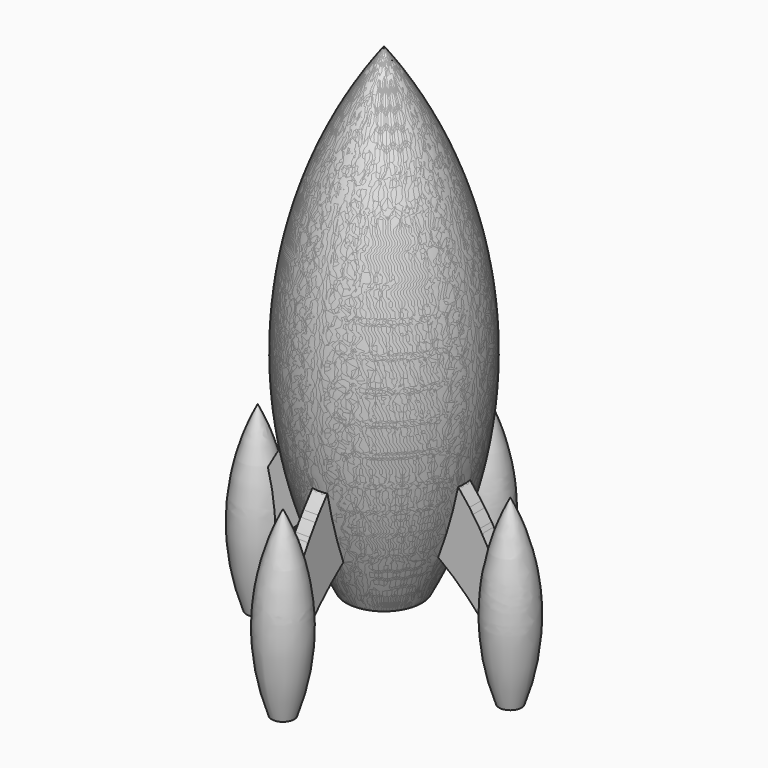
from build123d import *

# Parameters (mm, degrees)
F3_DEPTH = 2.5
F5_COUNT = 4
F5_ANGLE = 270
F8_COUNT = 4
F8_ANGLE = 270


with BuildPart() as f1:
    # F0 (on Front) → F1 (revolve)
    with BuildSketch(Plane.XZ):
        with BuildLine():
            Line((0, 20), (12.664992, 20))
            ThreePointArc((12.664992, 20), (29.532269, 101.836406), (0, 180))
            Line((0, 180), (0, 20))
        make_face()
    revolve(axis=Axis((0, 0, 98.70124), (0, 0, -1)))

    # F2 (on Front) → F3 (join, symmetric)
    with BuildSketch(Plane.XZ):
        with BuildLine():
            Line((42.28336, 12.539793), (42.28336, 32.657612))
            ThreePointArc((42.28336, 32.657612), (25.793736, 61.059376), (0, 81.387952))
            Line((0, 81.387952), (0, 48.043005))
            ThreePointArc((0, 48.043005), (24.077732, 33.788157), (42.28336, 12.539793))
        make_face()
    extrude(amount=F3_DEPTH, both=True)

    # F5: F1 ×4 about axis
    f5_axis = Axis((0, 0, 60.381275), (0, 0, -1))


with BuildPart() as f1_1:
    add(f1.part)
    for i in range(1, F5_COUNT):
        add(f1.part.rotate(f5_axis, i * F5_ANGLE / (F5_COUNT - 1)))

    # F6 (on Front) → F7 (revolve)
    with BuildSketch(Plane.XZ):
        with BuildLine():
            ThreePointArc((46.042021, 0), (50.470896, 30.7884), (42.28336, 60.796812))
            Line((42.28336, 60.796812), (42.28336, 0))
            Line((42.28336, 0), (46.042021, 0))
        make_face()
    revolve(axis=Axis((42.28336, 0, 60.796812), (0, 0, 1)))


with BuildPart() as f8_1:
    # F8: instance of F1
    add(f1_1.part.rotate(Axis((0, 0, 60.381275), (0, 0, -1)), 1 * F8_ANGLE / (F8_COUNT - 1)))


with BuildPart() as f8_2:
    # F8: instance of F1
    add(f1_1.part.rotate(Axis((0, 0, 60.381275), (0, 0, -1)), 2 * F8_ANGLE / (F8_COUNT - 1)))


with BuildPart() as f8_3:
    # F8: instance of F1
    add(f1_1.part.rotate(Axis((0, 0, 60.381275), (0, 0, -1)), 3 * F8_ANGLE / (F8_COUNT - 1)))


solid = Compound([f1_1.part, f8_1.part, f8_2.part, f8_3.part])
